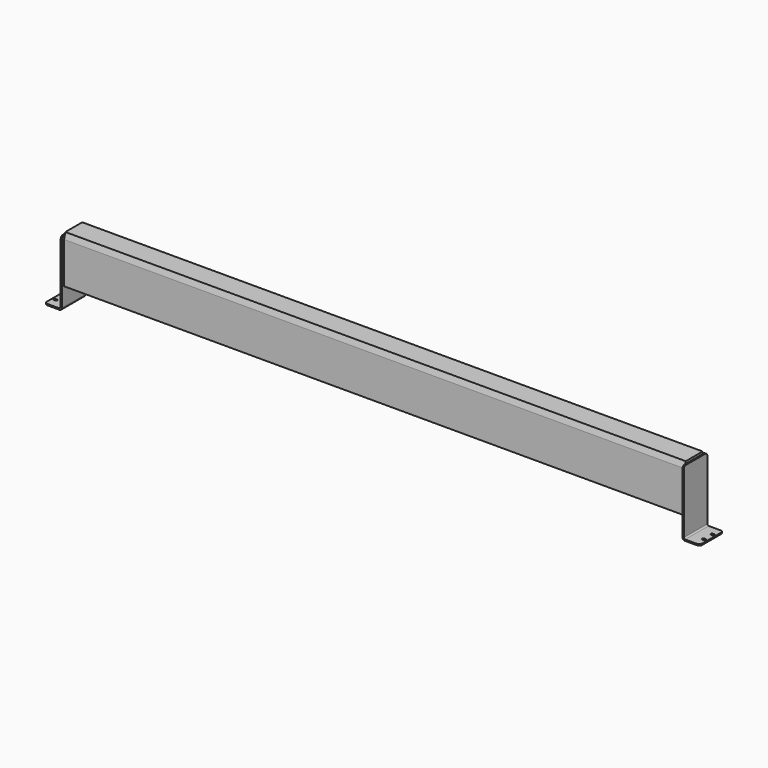
from build123d import *

# Parameters (mm, degrees)
F0_W     = 91
F0_H     = 176.5
F1_DEPTH = 1162
F2_SIZE2 = 22
F2_SIZE  = 6
F4_DEPTH = 55
F5_R     = 10
F6_R     = 10
F8_DEPTH = 25


with BuildPart() as f1:
    # F0 (on Right) → F1 (new body, symmetric)
    with BuildSketch(Plane.YZ):
        Rectangle(F0_W, F0_H)
    extrude(amount=F1_DEPTH, both=True)

    # F2
    f2_edges = [f1.edges().sort_by_distance(p)[0] for p in [
        (0, 45.5, 88.25),
        (0, -45.5, 88.25),
    ]]
    f2_side = f1.faces().sort_by_distance((0, 0, 88.25))[0]
    chamfer(f2_edges, length=F2_SIZE, length2=F2_SIZE2, reference=f2_side)


with BuildPart() as f4:
    # F3 (on Front) → F4 (new body, symmetric)
    with BuildSketch(Plane.XZ):
        with BuildLine():
            Line((1162, 79.75), (1162, 66.25))
            Line((1162, 66.25), (1162, -88.25))
            Line((1162, -88.25), (1162, -155.25))
            ThreePointArc((1162, -155.25), (1164.9289321881, -162.3210678119), (1172, -165.25))
            Line((1172, -165.25), (1227, -165.25))
            Line((1227, -165.25), (1227, -160.25))
            Line((1227, -160.25), (1172, -160.25))
            ThreePointArc((1172, -160.25), (1168.4644660941, -158.7855339059), (1167, -155.25))
            Line((1167, -155.25), (1167, 79.75))
            Line((1167, 79.75), (1162, 79.75))
        make_face()
    extrude(amount=F4_DEPTH, both=True)

    # F5
    f5_edges = [f4.edges().sort_by_distance(p)[0] for p in [
        (1164.5, 55, 79.75),
        (1164.5, -55, 79.75),
    ]]
    fillet(f5_edges, radius=F5_R)

    # F6
    f6_edges = [f4.edges().sort_by_distance(p)[0] for p in [
        (1227, 55, -162.75),
        (1227, -55, -162.75),
    ]]
    fillet(f6_edges, radius=F6_R)

    # F7 (on face) → F8 (cut)
    with BuildSketch(Plane(origin=(0, 0, -165.25), x_dir=(1, 0, 0), z_dir=(0, 0, -1))):
        with BuildLine():
            ThreePointArc((1217.5, -24.5), (1222, -20), (1217.5, -15.5))
            Line((1217.5, -15.5), (1212.5, -15.5))
            ThreePointArc((1212.5, -15.5), (1208, -20), (1212.5, -24.5))
            Line((1212.5, -24.5), (1217.5, -24.5))
        make_face()
        with BuildLine():
            Line((1212.5, 15.5), (1217.5, 15.5))
            ThreePointArc((1217.5, 15.5), (1222, 20), (1217.5, 24.5))
            Line((1217.5, 24.5), (1212.5, 24.5))
            ThreePointArc((1212.5, 24.5), (1208, 20), (1212.5, 15.5))
        make_face()
    extrude(amount=-F8_DEPTH, mode=Mode.SUBTRACT)


with BuildPart() as f9_1:
    # F9: instance of F4
    add(f4.part.mirror(Plane.YZ))


solid = Compound([f1.part, f4.part, f9_1.part])
